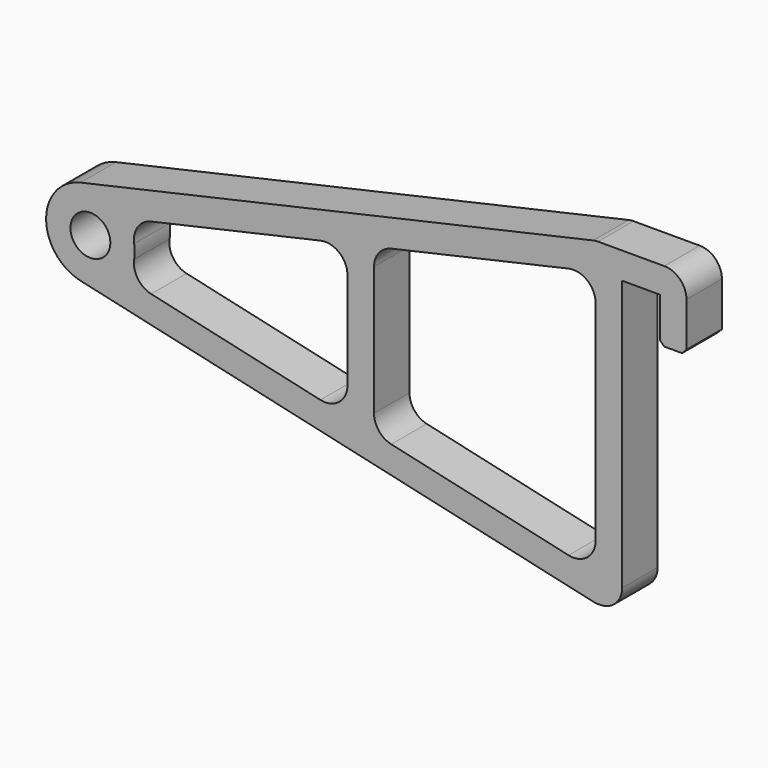
from build123d import *

# Parameters (mm, degrees)
F0_R     = 4.5
F1_DEPTH = 10
F2_R     = 5
F3_SIZE  = 1


with BuildPart() as f1:
    # F0 (on Front) → F1 (new body)
    with BuildSketch(Plane.XZ):
        with BuildLine():
            Line((0, -36), (0, 0))
            Line((0, 0), (0, 30))
            Line((0, 30), (8.5, 30))
            Line((8.5, 30), (8.5, 20))
            Line((8.5, 20), (14.5, 20))
            Line((14.5, 20), (14.5, 36))
            Line((14.5, 36), (8.5, 36))
            Line((8.5, 36), (0, 36))
            Line((0, 36), (-6, 36))
            Line((-6, 36), (-122.203111, 9.754297))
            ThreePointArc((-122.203111, 9.754297), (-130, 0), (-122.203111, -9.754297))
            Line((-122.203111, -9.754297), (-6, -36))
            Line((-6, -36), (0, -36))
        make_face()
        with Locations((-120, 0)):
            Circle(F0_R, mode=Mode.SUBTRACT)
        with BuildLine():
            Line((-111.941284, 5.920903), (-62, 17.200671))
            Line((-62, 17.200671), (-62, -17.200671))
            Line((-62, -17.200671), (-111.941284, -5.920903))
            ThreePointArc((-111.941284, -5.920903), (-110, 0), (-111.941284, 5.920903))
        make_face(mode=Mode.SUBTRACT)
        Polygon((-56, 18.555835), (-6, 29.848864), (-6, -29.848864), (-56, -18.555835), align=None, mode=Mode.SUBTRACT)
    extrude(amount=F1_DEPTH)

    # F2
    f2_edges = [f1.edges().sort_by_distance(p)[0] for p in [
        (-111.941284, -5, -5.920903),
        (-111.941284, -5, 5.920903),
        (-62, -5, -17.200671),
        (-56, -5, 18.555835),
        (-56, -5, -18.555835),
        (-62, -5, 17.200671),
        (-6, -5, 29.848864),
        (-6, -5, -29.848864),
        (14.5, -5, 36),
        (0, -5, -36),
        (-6, -5, 36),
    ]]
    fillet(f2_edges, radius=F2_R)

    # F3
    f3_edges = [f1.edges().sort_by_distance(p)[0] for p in [
        (8.5, -5, 20),
        (14.5, -5, 20),
    ]]
    chamfer(f3_edges, length=F3_SIZE)


solid = f1.part
